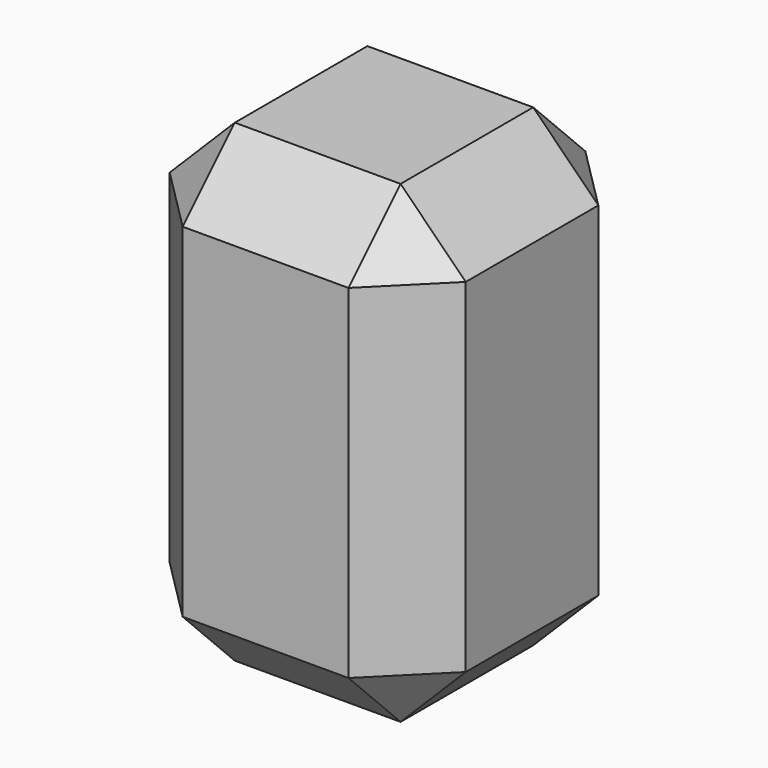
from build123d import *

# Parameters (mm, degrees)
F0_W     = 635
F0_H     = 1016
F1_DEPTH = 635
F2_SIZE  = 139.7
F3_T     = -2.54


with BuildPart() as f1:
    # F0 (on Front) → F1 (new body)
    with BuildSketch(Plane.XZ):
        with Locations((-2.180368, 82.699301)):
            Rectangle(F0_W, F0_H)
    extrude(amount=F1_DEPTH)

    # F2
    f2_edges = [f1.edges().sort_by_distance(p)[0] for p in [
        (315.319632, -317.5, 590.699301),
        (-2.180368, -635, 590.699301),
        (-319.680368, -317.5, 590.699301),
        (-2.180368, 0, 590.699301),
        (315.319632, -635, 82.699301),
        (315.319632, 0, 82.699301),
        (-319.680368, -635, 82.699301),
        (-2.180368, -635, -425.300699),
        (315.319632, -317.5, -425.300699),
        (-319.680368, 0, 82.699301),
        (-319.680368, -317.5, -425.300699),
        (-2.180368, 0, -425.300699),
    ]]
    chamfer(f2_edges, length=F2_SIZE)

    # F3
    f3_openings = [f1.faces().sort_by_distance(p)[0] for p in [
        (-319.680368, -317.5, 82.699301),
    ]]
    offset(amount=F3_T, openings=f3_openings)


solid = f1.part
